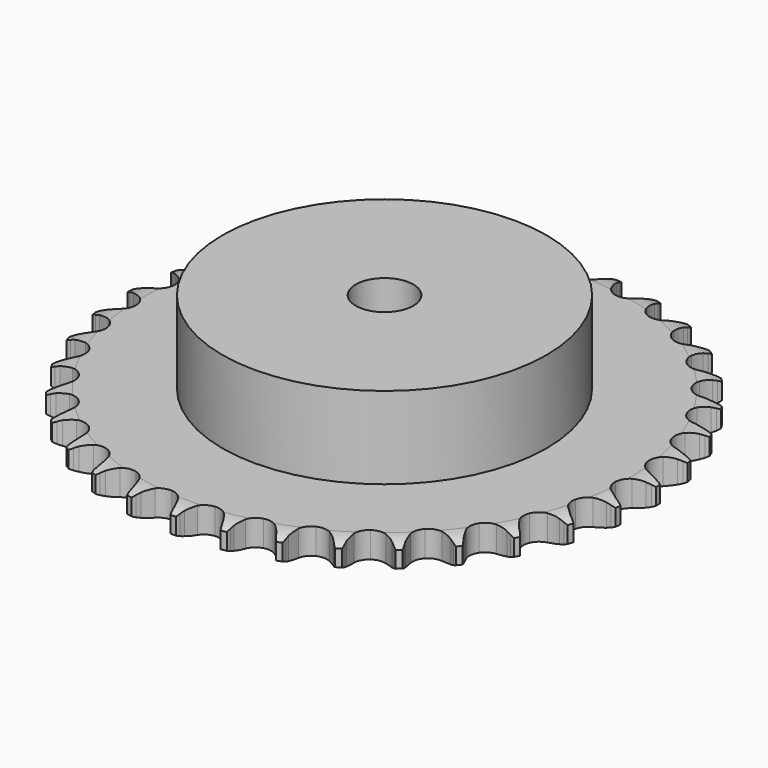
from build123d import *

# Parameters (mm, degrees)
PAD_DEPTH         = 7.2
SKETCH001_R       = 45
PAD001_DEPTH      = 30
SKETCH002_R       = 8
POCKET_DEPTH      = 0.001
POCKET_DEPTH_BACK = 30.001


with BuildPart() as part:
    # Sprocket → Pad (new body)
    with BuildSketch(Plane.XY):
        with BuildLine():
            ThreePointArc((-6.691346, 74.34694), (-5.938959, 73.318588), (-5.388264, 72.169532))
            Line((-5.388264, 72.169532), (-4.973116, 71.048101))
            ThreePointArc((-4.973116, 71.048101), (-4.315736, 69.599875), (-3.458518, 68.260216))
            ThreePointArc((-3.458518, 68.260216), (-1.934686, 66.983187), (0, 66.525082))
            ThreePointArc((0, 66.525082), (1.934686, 66.983187), (3.458518, 68.260216))
            ThreePointArc((3.458518, 68.260216), (4.315736, 69.599875), (4.973116, 71.048101))
            Line((4.973116, 71.048101), (5.388264, 72.169532))
            ThreePointArc((5.388264, 72.169532), (5.938959, 73.318588), (6.691346, 74.34694))
            ThreePointArc((6.691346, 74.34694), (7.248022, 73.20077), (7.584695, 71.97185))
            Line((7.584695, 71.97185), (7.792932, 70.794313))
            ThreePointArc((7.792932, 70.794313), (8.181157, 69.25198), (8.785394, 67.780788))
            ThreePointArc((8.785394, 67.780788), (10.056715, 66.252191), (11.878512, 65.455997))
            ThreePointArc((11.878512, 65.455997), (13.863904, 65.561288), (15.59127, 66.545704))
            Line((15.59127, 66.545704), (17.579324, 69.018345))
            ThreePointArc((17.579324, 69.018345), (17.869839, 69.541172), (18.18804, 70.047626))
            ThreePointArc((18.18804, 70.047626), (18.935057, 71.079886), (19.858972, 71.957368))
            ThreePointArc((19.858972, 71.957368), (20.202046, 70.730219), (20.313876, 69.460933))
            Line((20.313876, 69.460933), (20.308509, 68.265137))
            ThreePointArc((20.308509, 68.265137), (20.415101, 66.678271), (20.746936, 65.122831))
            ThreePointArc((20.746936, 65.122831), (21.724885, 63.391795), (23.375239, 62.283102))
            ThreePointArc((23.375239, 62.283102), (25.347526, 62.032195), (27.222906, 62.692358))
            Line((27.222906, 62.692358), (29.620519, 64.770282))
            ThreePointArc((29.620519, 64.770282), (29.999719, 65.232834), (30.403237, 65.674332))
            ThreePointArc((30.403237, 65.674332), (31.322566, 66.556618), (32.388314, 67.255027))
            ThreePointArc((32.388314, 67.255027), (32.506759, 65.986341), (32.390152, 64.717485))
            Line((32.390152, 64.717485), (32.171354, 63.541864))
            ThreePointArc((32.171354, 63.541864), (31.992887, 61.961466), (32.041655, 60.371771))
            ThreePointArc((32.041655, 60.371771), (32.6948, 58.493935), (34.120667, 57.108377))
            ThreePointArc((34.120667, 57.108377), (36.016457, 56.509337), (37.979576, 56.824029))
            Line((37.979576, 56.824029), (40.709685, 58.440449))
            ThreePointArc((40.709685, 58.440449), (41.165384, 58.827859), (41.64125, 59.190211))
            ThreePointArc((41.64125, 59.190211), (42.703343, 59.894166), (43.876669, 60.391055))
            ThreePointArc((43.876669, 60.391055), (43.766678, 59.121607), (43.425382, 57.893963))
            Line((43.425382, 57.893963), (43.000185, 56.776303))
            ThreePointArc((43.000185, 56.776303), (42.542395, 55.253169), (42.306528, 53.680314))
            ThreePointArc((42.306528, 53.680314), (42.613876, 51.716031), (43.769428, 50.098141))
            ThreePointArc((43.769428, 50.098141), (45.527789, 49.170222), (47.515551, 49.129328))
            Line((47.515551, 49.129328), (50.490409, 50.232292))
            ThreePointArc((50.490409, 50.232292), (51.007959, 50.532108), (51.540878, 50.803668))
            ThreePointArc((51.540878, 50.803668), (52.711599, 51.306666), (53.954792, 51.586064))
            ThreePointArc((53.954792, 51.586064), (53.6199, 50.356657), (53.064885, 49.209682))
            Line((53.064885, 49.209682), (52.446955, 48.185905))
            ThreePointArc((52.446955, 48.185905), (51.724556, 46.76899), (51.211635, 45.263527))
            ThreePointArc((51.211635, 45.263527), (51.163307, 43.275932), (52.011404, 41.47771))
            ThreePointArc((52.011404, 41.47771), (53.575821, 40.250736), (55.524336, 39.85557))
            Line((55.524336, 39.85557), (58.648329, 40.409628))
            ThreePointArc((58.648329, 40.409628), (59.211096, 40.612213), (59.78394, 40.784253))
            ThreePointArc((59.78394, 40.784253), (61.025661, 41.070127), (62.298764, 41.123054))
            ThreePointArc((62.298764, 41.123054), (61.749735, 39.973202), (60.998838, 38.943761))
            Line((60.998838, 38.943761), (60.208036, 38.046772))
            ThreePointArc((60.208036, 38.046772), (59.244247, 36.781617), (58.470758, 35.391933))
            ThreePointArc((58.470758, 35.391933), (58.068308, 33.444909), (58.58169, 31.524152))
            ThreePointArc((58.58169, 31.524152), (59.901882, 30.037558), (61.748524, 29.300822))
            Line((61.748524, 29.300822), (64.921244, 29.288165))
            ThreePointArc((64.921244, 29.288165), (65.51114, 29.387009), (66.105497, 29.453999))
            ThreePointArc((66.105497, 29.453999), (67.378307, 29.513561), (68.640402, 29.338316))
            ThreePointArc((68.640402, 29.338316), (67.894882, 28.304975), (66.972239, 27.426155))
            Line((66.972239, 27.426155), (66.033982, 26.684785))
            ThreePointArc((66.033982, 26.684785), (64.859779, 25.612053), (63.850582, 24.382813))
            ThreePointArc((63.850582, 24.382813), (63.106945, 22.538938), (63.269113, 20.557381))
            ThreePointArc((63.269113, 20.557381), (64.302647, 18.858948), (65.988064, 17.804321))
            Line((65.988064, 17.804321), (69.107537, 17.225356))
            ThreePointArc((69.107537, 17.225356), (69.705602, 17.217282), (70.302369, 17.177068))
            ThreePointArc((70.302369, 17.177068), (71.56536, 17.008404), (72.775881, 16.61062))
            ThreePointArc((72.775881, 16.61062), (71.857832, 15.727003), (70.793096, 15.027051))
            Line((70.793096, 15.027051), (69.737541, 14.465127))
            ThreePointArc((69.737541, 14.465127), (68.390664, 13.619296), (67.178197, 12.590009))
            ThreePointArc((67.178197, 12.590009), (66.117274, 10.908548), (65.923015, 8.929879))
            ThreePointArc((65.923015, 8.929879), (66.636672, 7.074196), (68.106693, 5.735574))
            Line((68.106693, 5.735574), (71.072656, 4.60891))
            ThreePointArc((71.072656, 4.60891), (71.659669, 4.494177), (72.239665, 4.348053))
            ThreePointArc((72.239665, 4.348053), (73.452243, 3.956584), (74.572284, 3.349045))
            ThreePointArc((74.572284, 3.349045), (73.511211, 2.643553), (72.338606, 2.144964))
            Line((72.338606, 2.144964), (71.199678, 1.780547))
            ThreePointArc((71.199678, 1.780547), (69.723417, 1.188804), (68.346648, 0.392552))
            ThreePointArc((68.346648, 0.392552), (67.002538, -1.072452), (66.458096, -2.984637))
            ThreePointArc((66.458096, -2.984637), (66.82894, -4.937927), (68.036317, -6.517518))
            Line((68.036317, -6.517518), (70.753442, -8.155669))
            ThreePointArc((70.753442, -8.155669), (71.310535, -8.373374), (71.855119, -8.620712))
            ThreePointArc((71.855119, -8.620712), (72.978311, -9.222405), (73.971871, -10.020171))
            ThreePointArc((73.971871, -10.020171), (72.801881, -10.524864), (71.559093, -10.806063))
            Line((71.559093, -10.806063), (70.373399, -10.96126))
            ThreePointArc((70.373399, -10.96126), (68.815202, -11.279898), (67.318382, -11.817521))
            ThreePointArc((67.318382, -11.817521), (65.734286, -13.018982), (64.85716, -14.803223))
            ThreePointArc((64.85716, -14.803223), (64.87327, -16.79134), (65.779197, -18.561133))
            Line((65.779197, -18.561133), (68.160154, -20.658119))
            ThreePointArc((68.160154, -20.658119), (68.669421, -20.971799), (69.16109, -21.312401))
            ThreePointArc((69.16109, -21.312401), (70.158795, -22.104977), (70.993942, -23.06733))
            ThreePointArc((70.993942, -23.06733), (69.752637, -23.355003), (68.479612, -23.409774))
            Line((68.479612, -23.409774), (67.285261, -23.350764))
            ThreePointArc((67.285261, -23.350764), (65.69521, -23.386054), (64.126448, -23.64777))
            ThreePointArc((64.126448, -23.64777), (62.35328, -24.547072), (61.171661, -26.146023))
            ThreePointArc((61.171661, -26.146023), (60.832521, -28.105066), (61.40788, -30.008177))
            Line((61.40788, -30.008177), (63.376143, -32.4966))
            ThreePointArc((63.376143, -32.4966), (63.821216, -32.896172), (64.244167, -33.319091))
            ThreePointArc((64.244167, -33.319091), (65.084319, -34.277078), (65.73421, -35.373087))
            ThreePointArc((65.73421, -35.373087), (64.461487, -35.434493), (63.19914, -35.261076))
            Line((63.19914, -35.261076), (62.034519, -34.989755))
            ThreePointArc((62.034519, -34.989755), (60.46372, -34.740563), (58.873438, -34.71796))
            ThreePointArc((58.873438, -34.71796), (56.968189, -35.286198), (55.520054, -36.648467))
            ThreePointArc((55.520054, -36.648467), (54.836564, -38.515472), (55.062864, -40.490733))
            Line((55.062864, -40.490733), (56.55517, -43.290614))
            ThreePointArc((56.55517, -43.290614), (56.921745, -43.763235), (57.262383, -44.254878))
            ThreePointArc((57.262383, -44.254878), (57.917978, -45.347485), (58.361725, -46.541923))
            ThreePointArc((58.361725, -46.541923), (57.098491, -46.375089), (55.887395, -45.979059))
            Line((55.887395, -45.979059), (54.789937, -45.504146))
            ThreePointArc((54.789937, -45.504146), (53.288876, -44.978482), (51.728186, -44.672287))
            ThreePointArc((51.728186, -44.672287), (49.752092, -44.891198), (48.083988, -45.973))
            ThreePointArc((48.083988, -45.973), (47.078114, -47.687959), (46.948081, -49.671885))
            Line((46.948081, -49.671885), (47.916468, -52.693232))
            ThreePointArc((47.916468, -52.693232), (48.192762, -53.223712), (48.440139, -53.768278))
            ThreePointArc((48.440139, -53.768278), (48.890106, -54.960386), (49.113447, -56.214864))
            ThreePointArc((49.113447, -56.214864), (47.900303, -55.825151), (46.779384, -55.219236))
            Line((46.779384, -55.219236), (45.784361, -54.555997))
            ThreePointArc((45.784361, -54.555997), (44.401284, -53.770755), (42.920348, -53.190809))
            ThreePointArc((42.920348, -53.190809), (40.936923, -53.053357), (39.102462, -53.819922))
            ThreePointArc((39.102462, -53.819922), (37.806536, -55.327716), (37.324349, -57.256541))
            Line((37.324349, -57.256541), (37.737691, -60.402245))
            ThreePointArc((37.737691, -60.402245), (37.914824, -60.973535), (38.06099, -61.55352))
            ThreePointArc((38.06099, -61.55352), (38.290866, -62.806816), (38.286622, -64.081012))
            ThreePointArc((38.286622, -64.081012), (37.16256, -63.480948), (36.167845, -62.684622))
            Line((36.167845, -62.684622), (35.307238, -61.854373))
            ThreePointArc((35.307238, -61.854373), (34.086598, -60.834793), (32.733015, -59.999735))
            ThreePointArc((32.733015, -59.999735), (30.806007, -59.510337), (28.864151, -59.937028))
            ThreePointArc((28.864151, -59.937028), (27.319824, -61.189195), (26.500981, -63.000924))
            Line((26.500981, -63.000924), (26.345993, -66.169881))
            ThreePointArc((26.345993, -66.169881), (26.418272, -66.763618), (26.458528, -67.360382))
            ThreePointArc((26.458528, -67.360382), (26.460926, -68.634583), (26.229234, -69.887544))
            ThreePointArc((26.229234, -69.887544), (25.230381, -69.096414), (24.393841, -68.135272))
            Line((24.393841, -68.135272), (23.695312, -67.164699))
            ThreePointArc((23.695312, -67.164699), (22.67634, -65.943549), (21.493615, -64.88022))
            ThreePointArc((21.493615, -64.88022), (19.684961, -64.054607), (17.698123, -64.127709))
            ThreePointArc((17.698123, -64.127709), (15.955031, -65.084002), (14.82585, -66.720406))
            Line((14.82585, -66.720406), (14.107514, -69.810763))
            ThreePointArc((14.107514, -69.810763), (14.072615, -70.407864), (14.005668, -71.002225))
            ThreePointArc((14.005668, -71.002225), (13.78051, -72.256378), (13.328817, -73.447833))
            ThreePointArc((13.328817, -73.447833), (12.487278, -72.491065), (11.835799, -71.395999))
            Line((11.835799, -71.395999), (11.321798, -70.316296))
            ThreePointArc((11.321798, -70.316296), (10.537247, -68.932826), (9.563393, -67.675401))
            ThreePointArc((9.563393, -67.675401), (7.931224, -66.540108), (5.963262, -66.257272))
            ThreePointArc((5.963262, -66.257272), (4.077429, -66.886956), (2.674204, -68.29544))
            Line((2.674204, -68.29544), (1.415607, -71.207869))
            ThreePointArc((1.415607, -71.207869), (1.274653, -71.789143), (1.102655, -72.361999))
            ThreePointArc((1.102655, -72.361999), (0.657177, -73.555793), (0, -74.647449))
            ThreePointArc((0, -74.647449), (-0.657177, -73.555793), (-1.102655, -72.361999))
            Line((-1.102655, -72.361999), (-1.415607, -71.207869))
            ThreePointArc((-1.415607, -71.207869), (-1.940523, -69.706546), (-2.674204, -68.29544))
            ThreePointArc((-2.674204, -68.29544), (-4.077429, -66.886956), (-5.963262, -66.257272))
            ThreePointArc((-5.963262, -66.257272), (-7.931224, -66.540108), (-9.563393, -67.675401))
            Line((-9.563393, -67.675401), (-11.321798, -70.316296))
            ThreePointArc((-11.321798, -70.316296), (-11.564278, -70.86306), (-11.835799, -71.395999))
            ThreePointArc((-11.835799, -71.395999), (-12.487278, -72.491065), (-13.328817, -73.447833))
            ThreePointArc((-13.328817, -73.447833), (-13.78051, -72.256378), (-14.005668, -71.002225))
            Line((-14.005668, -71.002225), (-14.107514, -69.810763))
            ThreePointArc((-14.107514, -69.810763), (-14.355922, -68.239839), (-14.82585, -66.720406))
            ThreePointArc((-14.82585, -66.720406), (-15.955031, -65.084002), (-17.698123, -64.127709))
            ThreePointArc((-17.698123, -64.127709), (-19.684961, -64.054607), (-21.493615, -64.88022))
            Line((-21.493615, -64.88022), (-23.695312, -67.164699))
            ThreePointArc((-23.695312, -67.164699), (-24.031523, -67.65938), (-24.393841, -68.135272))
            ThreePointArc((-24.393841, -68.135272), (-25.230381, -69.096414), (-26.229234, -69.887544))
            ThreePointArc((-26.229234, -69.887544), (-26.460926, -68.634583), (-26.458528, -67.360382))
            Line((-26.458528, -67.360382), (-26.345993, -66.169881))
            ThreePointArc((-26.345993, -66.169881), (-26.30991, -64.579848), (-26.500981, -63.000924))
            ThreePointArc((-26.500981, -63.000924), (-27.319824, -61.189195), (-28.864151, -59.937028))
            ThreePointArc((-28.864151, -59.937028), (-30.806007, -59.510337), (-32.733015, -59.999735))
            Line((-32.733015, -59.999735), (-35.307238, -61.854373))
            ThreePointArc((-35.307238, -61.854373), (-35.726376, -62.281072), (-36.167845, -62.684622))
            ThreePointArc((-36.167845, -62.684622), (-37.16256, -63.480948), (-38.286622, -64.081012))
            ThreePointArc((-38.286622, -64.081012), (-38.290866, -62.806816), (-38.06099, -61.55352))
            Line((-38.06099, -61.55352), (-37.737691, -60.402245))
            ThreePointArc((-37.737691, -60.402245), (-37.418276, -58.844207), (-37.324349, -57.256541))
            ThreePointArc((-37.324349, -57.256541), (-37.806536, -55.327716), (-39.102462, -53.819922))
            ThreePointArc((-39.102462, -53.819922), (-40.936923, -53.053357), (-42.920348, -53.190809))
            Line((-42.920348, -53.190809), (-45.784361, -54.555997))
            ThreePointArc((-45.784361, -54.555997), (-46.272953, -54.900998), (-46.779384, -55.219236))
            ThreePointArc((-46.779384, -55.219236), (-47.900303, -55.825151), (-49.113447, -56.214864))
            ThreePointArc((-49.113447, -56.214864), (-48.890106, -54.960386), (-48.440139, -53.768278))
            Line((-48.440139, -53.768278), (-47.916468, -52.693232))
            ThreePointArc((-47.916468, -52.693232), (-47.323988, -51.217265), (-46.948081, -49.671885))
            ThreePointArc((-46.948081, -49.671885), (-47.078114, -47.687959), (-48.083988, -45.973))
            ThreePointArc((-48.083988, -45.973), (-49.752092, -44.891198), (-51.728186, -44.672287))
            Line((-51.728186, -44.672287), (-54.789937, -45.504146))
            ThreePointArc((-54.789937, -45.504146), (-55.332279, -45.756362), (-55.887395, -45.979059))
            ThreePointArc((-55.887395, -45.979059), (-57.098491, -46.375089), (-58.361725, -46.541923))
            ThreePointArc((-58.361725, -46.541923), (-57.917978, -45.347485), (-57.262383, -44.254878))
            Line((-57.262383, -44.254878), (-56.55517, -43.290614))
            ThreePointArc((-56.55517, -43.290614), (-55.708668, -41.944159), (-55.062864, -40.490733))
            ThreePointArc((-55.062864, -40.490733), (-54.836564, -38.515472), (-55.520054, -36.648467))
            ThreePointArc((-55.520054, -36.648467), (-56.968189, -35.286198), (-58.873438, -34.71796))
            Line((-58.873438, -34.71796), (-62.034519, -34.989755))
            ThreePointArc((-62.034519, -34.989755), (-62.613181, -35.141079), (-63.19914, -35.261076))
            ThreePointArc((-63.19914, -35.261076), (-64.461487, -35.434493), (-65.73421, -35.373087))
            ThreePointArc((-65.73421, -35.373087), (-65.084319, -34.277078), (-64.244167, -33.319091))
            Line((-64.244167, -33.319091), (-63.376143, -32.4966))
            ThreePointArc((-63.376143, -32.4966), (-62.302825, -31.322932), (-61.40788, -30.008177))
            ThreePointArc((-61.40788, -30.008177), (-60.832521, -28.105066), (-61.171661, -26.146023))
            ThreePointArc((-61.171661, -26.146023), (-62.35328, -24.547072), (-64.126448, -23.64777))
            Line((-64.126448, -23.64777), (-67.285261, -23.350764))
            ThreePointArc((-67.285261, -23.350764), (-67.881643, -23.396332), (-68.479612, -23.409774))
            ThreePointArc((-68.479612, -23.409774), (-69.752637, -23.355003), (-70.993942, -23.06733))
            ThreePointArc((-70.993942, -23.06733), (-70.158795, -22.104977), (-69.16109, -21.312401))
            Line((-69.16109, -21.312401), (-68.160154, -20.658119))
            ThreePointArc((-68.160154, -20.658119), (-66.894519, -19.694961), (-65.779197, -18.561133))
            ThreePointArc((-65.779197, -18.561133), (-64.87327, -16.79134), (-64.85716, -14.803223))
            ThreePointArc((-64.85716, -14.803223), (-65.734286, -13.018982), (-67.318382, -11.817521))
            Line((-67.318382, -11.817521), (-70.373399, -10.96126))
            ThreePointArc((-70.373399, -10.96126), (-70.968333, -10.899608), (-71.559093, -10.806063))
            ThreePointArc((-71.559093, -10.806063), (-72.801881, -10.524864), (-73.971871, -10.020171))
            ThreePointArc((-73.971871, -10.020171), (-72.978311, -9.222405), (-71.855119, -8.620712))
            Line((-71.855119, -8.620712), (-70.753442, -8.155669))
            ThreePointArc((-70.753442, -8.155669), (-69.336167, -7.433977), (-68.036317, -6.517518))
            ThreePointArc((-68.036317, -6.517518), (-66.82894, -4.937927), (-66.458096, -2.984637))
            ThreePointArc((-66.458096, -2.984637), (-67.002538, -1.072452), (-68.346648, 0.392552))
            Line((-68.346648, 0.392552), (-71.199678, 1.780547))
            ThreePointArc((-71.199678, 1.780547), (-71.774043, 1.947439), (-72.338606, 2.144964))
            ThreePointArc((-72.338606, 2.144964), (-73.511211, 2.643553), (-74.572284, 3.349045))
            ThreePointArc((-74.572284, 3.349045), (-73.452243, 3.956584), (-72.239665, 4.348053))
            Line((-72.239665, 4.348053), (-71.072656, 4.60891))
            ThreePointArc((-71.072656, 4.60891), (-69.549294, 5.065941), (-68.106693, 5.735574))
            ThreePointArc((-68.106693, 5.735574), (-66.636672, 7.074196), (-65.923015, 8.929879))
            ThreePointArc((-65.923015, 8.929879), (-66.117274, 10.908548), (-67.178197, 12.590009))
            Line((-67.178197, 12.590009), (-69.737541, 14.465127))
            ThreePointArc((-69.737541, 14.465127), (-70.272876, 14.731893), (-70.793096, 15.027051))
            ThreePointArc((-70.793096, 15.027051), (-71.857832, 15.727003), (-72.775881, 16.61062))
            ThreePointArc((-72.775881, 16.61062), (-71.56536, 17.008404), (-70.302369, 17.177068))
            Line((-70.302369, 17.177068), (-69.107537, 17.225356))
            ThreePointArc((-69.107537, 17.225356), (-67.52705, 17.403035), (-65.988064, 17.804321))
            ThreePointArc((-65.988064, 17.804321), (-64.302647, 18.858948), (-63.269113, 20.557381))
            ThreePointArc((-63.269113, 20.557381), (-63.106945, 22.538938), (-63.850582, 24.382813))
            Line((-63.850582, 24.382813), (-66.033982, 26.684785))
            ThreePointArc((-66.033982, 26.684785), (-66.513081, 27.042852), (-66.972239, 27.426155))
            ThreePointArc((-66.972239, 27.426155), (-67.894882, 28.304975), (-68.640402, 29.338316))
            ThreePointArc((-68.640402, 29.338316), (-67.378307, 29.513561), (-66.105497, 29.453999))
            Line((-66.105497, 29.453999), (-64.921244, 29.288165))
            ThreePointArc((-64.921244, 29.288165), (-63.334431, 29.180782), (-61.748524, 29.300822))
            ThreePointArc((-61.748524, 29.300822), (-59.901882, 30.037558), (-58.58169, 31.524152))
            ThreePointArc((-58.58169, 31.524152), (-58.068308, 33.444909), (-58.470758, 35.391933))
            Line((-58.470758, 35.391933), (-60.208036, 38.046772))
            ThreePointArc((-60.208036, 38.046772), (-60.615501, 38.484631), (-60.998838, 38.943761))
            ThreePointArc((-60.998838, 38.943761), (-61.749735, 39.973202), (-62.298764, 41.123054))
            ThreePointArc((-62.298764, 41.123054), (-61.025661, 41.070127), (-59.78394, 40.784253))
            Line((-59.78394, 40.784253), (-58.648329, 40.409628))
            ThreePointArc((-58.648329, 40.409628), (-57.10619, 40.020634), (-55.524336, 39.85557))
            ThreePointArc((-55.524336, 39.85557), (-53.575821, 40.250736), (-52.011404, 41.47771))
            ThreePointArc((-52.011404, 41.47771), (-51.163307, 43.275932), (-51.211635, 45.263527))
            Line((-51.211635, 45.263527), (-52.446955, 48.185905))
            ThreePointArc((-52.446955, 48.185905), (-52.769689, 48.689483), (-53.064885, 49.209682))
            ThreePointArc((-53.064885, 49.209682), (-53.6199, 50.356657), (-53.954792, 51.586064))
            ThreePointArc((-53.954792, 51.586064), (-52.711599, 51.306666), (-51.540878, 50.803668))
            Line((-51.540878, 50.803668), (-50.490409, 50.232292))
            ThreePointArc((-50.490409, 50.232292), (-49.04251, 49.57419), (-47.515551, 49.129328))
            ThreePointArc((-47.515551, 49.129328), (-45.527789, 49.170222), (-43.769428, 50.098141))
            ThreePointArc((-43.769428, 50.098141), (-42.613876, 51.716031), (-42.306528, 53.680314))
            Line((-42.306528, 53.680314), (-43.000185, 56.776303))
            ThreePointArc((-43.000185, 56.776303), (-43.227815, 57.329415), (-43.425382, 57.893963))
            ThreePointArc((-43.425382, 57.893963), (-43.766678, 59.121607), (-43.876669, 60.391055))
            ThreePointArc((-43.876669, 60.391055), (-42.703343, 59.894166), (-41.64125, 59.190211))
            Line((-41.64125, 59.190211), (-40.709685, 58.440449))
            ThreePointArc((-40.709685, 58.440449), (-39.402564, 57.534391), (-37.979576, 56.824029))
            ThreePointArc((-37.979576, 56.824029), (-36.016457, 56.509337), (-34.120667, 57.108377))
            ThreePointArc((-34.120667, 57.108377), (-32.6948, 58.493935), (-32.041655, 60.371771))
            Line((-32.041655, 60.371771), (-32.171354, 63.541864))
            ThreePointArc((-32.171354, 63.541864), (-32.296564, 64.126732), (-32.390152, 64.717485))
            ThreePointArc((-32.390152, 64.717485), (-32.506759, 65.986341), (-32.388314, 67.255027))
            ThreePointArc((-32.388314, 67.255027), (-31.322566, 66.556618), (-30.403237, 65.674332))
            Line((-30.403237, 65.674332), (-29.620519, 64.770282))
            ThreePointArc((-29.620519, 64.770282), (-28.496186, 63.645389), (-27.222906, 62.692358))
            ThreePointArc((-27.222906, 62.692358), (-25.347526, 62.032195), (-23.375239, 62.283102))
            ThreePointArc((-23.375239, 62.283102), (-21.724885, 63.391795), (-20.746936, 65.122831))
            Line((-20.746936, 65.122831), (-20.308509, 68.265137))
            ThreePointArc((-20.308509, 68.265137), (-20.327275, 68.862963), (-20.313876, 69.460933))
            ThreePointArc((-20.313876, 69.460933), (-20.202046, 70.730219), (-19.858972, 71.957368))
            ThreePointArc((-19.858972, 71.957368), (-18.935057, 71.079886), (-18.18804, 70.047626))
            Line((-18.18804, 70.047626), (-17.579324, 69.018345))
            ThreePointArc((-17.579324, 69.018345), (-16.673918, 67.710772), (-15.59127, 66.545704))
            ThreePointArc((-15.59127, 66.545704), (-13.863904, 65.561288), (-11.878512, 65.455997))
            ThreePointArc((-11.878512, 65.455997), (-10.056715, 66.252191), (-8.785394, 67.780788))
            Line((-8.785394, 67.780788), (-7.792932, 70.794313))
            ThreePointArc((-7.792932, 70.794313), (-7.70465, 71.385882), (-7.584695, 71.97185))
            ThreePointArc((-7.584695, 71.97185), (-7.248022, 73.20077), (-6.691346, 74.34694))
        make_face()
    extrude(amount=PAD_DEPTH)

    # Sketch → Groove (revolve, cut)
    with BuildSketch(Plane.XZ):
        with BuildLine():
            Line((67.683431, 0), (73.35, 0))
            Line((79.016569, 0), (73.35, 0))
            Line((79.016569, 7.2), (79.016569, 0))
            Line((73.35, 7.2), (79.016569, 7.2))
            Line((67.683431, 7.2), (73.35, 7.2))
            ThreePointArc((73.35, 5.9), (70.59032, 6.870833), (67.683431, 7.2))
            Line((73.35, 1.3), (73.35, 5.9))
            ThreePointArc((67.683431, 0), (70.59032, 0.329167), (73.35, 1.3))
        make_face()
    revolve(axis=Axis((0, 0, 0), (0, 0, 1)), mode=Mode.SUBTRACT)

    # Sketch001 → Pad001 (join)
    with BuildSketch(Plane.XY):
        Circle(SKETCH001_R)
    extrude(amount=PAD001_DEPTH)

    # Sketch002 → Pocket (cut, two sides)
    with BuildSketch(Plane.XY) as pocket_sk:
        Circle(SKETCH002_R)
    extrude(amount=-POCKET_DEPTH, mode=Mode.SUBTRACT)
    extrude(pocket_sk.sketch, amount=POCKET_DEPTH_BACK, mode=Mode.SUBTRACT)


solid = part.part
